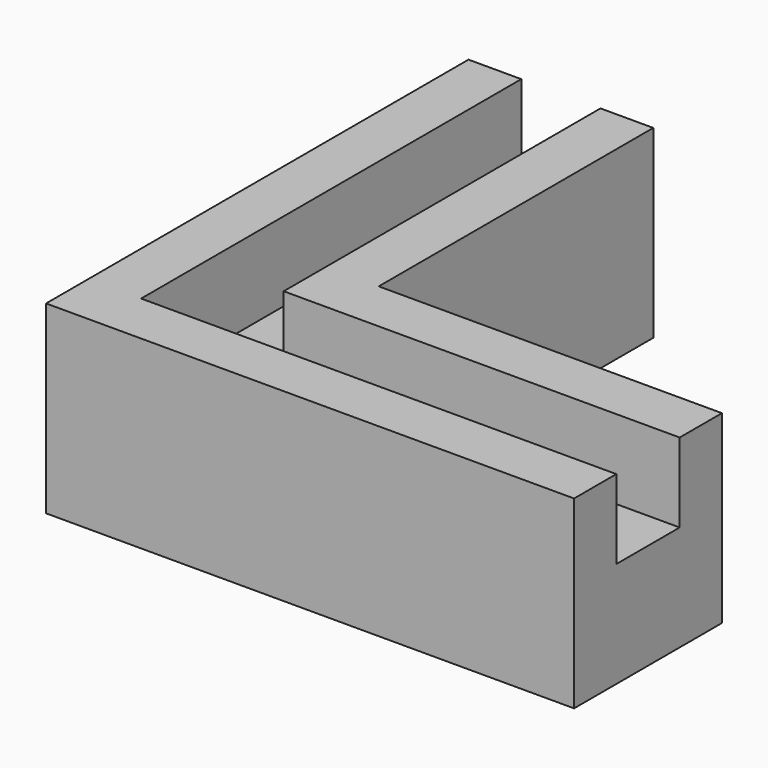
from build123d import *

# Parameters (mm, degrees)
F1_DEPTH = 35
F3_DEPTH = 15


with BuildPart() as f1:
    # F0 (on Top) → F1 (new body)
    with BuildSketch(Plane.XY):
        Polygon((35, 100), (0, 100), (0, 0), (100, 0), (100, 35), (35, 35), align=None)
    extrude(amount=F1_DEPTH)

    # F2 (on face) → F3 (cut)
    with BuildSketch(Plane.XY.offset(35)):
        Polygon((25, 100), (10, 100), (10, 10), (100, 10), (100, 25), (25, 25), align=None)
    extrude(amount=-F3_DEPTH, mode=Mode.SUBTRACT)


solid = f1.part
